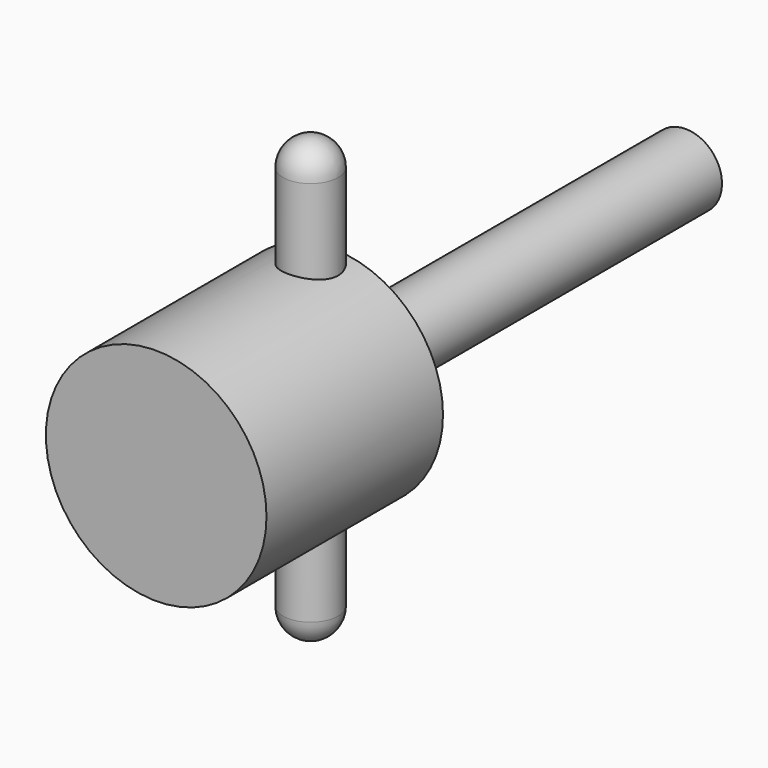
from build123d import *

# Parameters (mm, degrees)
F0_R     = 12.7
F1_DEPTH = 25.4
F2_R     = 3.175
F3_DEPTH = 25.4
F4_R     = 3.175
F5_R     = 4.180757
F6_DEPTH = 50.8


with BuildPart() as f1:
    # F0 (on Front) → F1 (new body)
    with BuildSketch(Plane.XZ):
        Circle(F0_R)
    extrude(amount=F1_DEPTH)

    # F2 (on Top) → F3 (join, symmetric)
    with BuildSketch(Plane.XY):
        with Locations((0, -3.175)):
            Circle(F2_R)
    extrude(amount=F3_DEPTH, both=True)

    # F4
    f4_edges = [f1.edges().sort_by_distance(p)[0] for p in [
        (-3.175, -3.175, -25.4),
        (-3.175, -3.175, 25.4),
    ]]
    fillet(f4_edges, radius=F4_R)


with BuildPart() as f6:
    # F5 (on face) → F6 (new body)
    with BuildSketch(Plane(origin=(0, 0, 0), x_dir=(-1, 0, 0), z_dir=(0, 1, 0))):
        Circle(F5_R)
    extrude(amount=F6_DEPTH)


solid = Compound([f1.part, f6.part])
